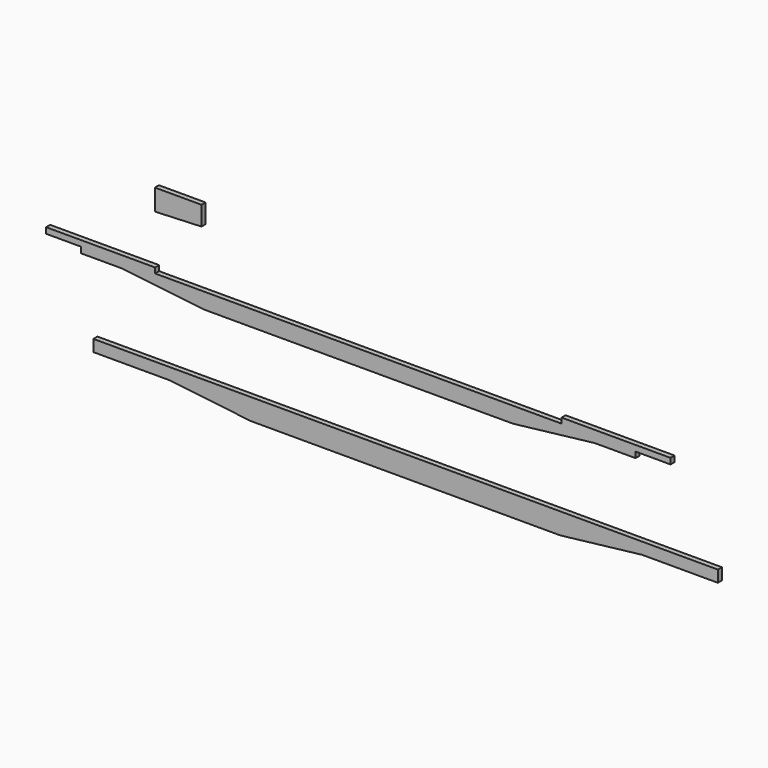
from build123d import *

# Parameters (mm, degrees)
F1_DEPTH  = 1.524
F3_W      = 10.51
F3_H      = 1.75
F4_DEPTH  = 1.524
F5_W      = 10.51
F5_H      = 1.75
F6_DEPTH  = 1.524
F7_W      = 122
F7_H      = 1.524
F8_DEPTH  = 1.6
F10_DEPTH = 1.524


with BuildPart() as f1:
    # F0 (on Front) → F1 (new body)
    with BuildSketch(Plane.XZ):
        Polygon((125.0616679081, 15.1221710391), (-62.3683320919, 15.1221710391), (-62.3683320919, 11.6221710391), (-39.5983320919, 11.6221710391), (-15.0783320919, 8.7721710391), (77.7716679081, 8.7721710391), (102.2916679081, 11.6221710391), (125.0616679081, 11.6221710391), align=None)
    extrude(amount=F1_DEPTH)


with BuildPart() as f2_1:
    # F2: copy of F1
    add(f1.part.moved(Location((-14.2, 0, 24.9))))

    # F3 (on face) → F4 (cut)
    with BuildSketch(Plane.XZ.offset(1.524)):
        with Locations((-71.3133320919, 37.3971710391)):
            Rectangle(F3_W, F3_H)
    extrude(amount=-F4_DEPTH, mode=Mode.SUBTRACT)

    # F5 (on face) → F6 (cut)
    with BuildSketch(Plane.XZ.offset(1.524)):
        with Locations((105.6066679081, 37.3971710391)):
            Rectangle(F5_W, F5_H)
    extrude(amount=-F6_DEPTH, mode=Mode.SUBTRACT)

    # F7 (on face) → F8 (cut)
    with BuildSketch(Plane.XY.offset(40.0221710391)):
        with Locations((17.1466679081, -0.762)):
            Rectangle(F7_W, F7_H)
    extrude(amount=-F8_DEPTH, mode=Mode.SUBTRACT)


with BuildPart() as f10:
    # F9 (on face) → F10 (new body)
    with BuildSketch(Plane.XZ.offset(1.524)):
        Polygon((-28.704431866, 62.1248952341), (-42.714431866, 62.1248952341), (-42.714431866, 55.7748952341), (-28.704431866, 56.3548952341), align=None)
    extrude(amount=F10_DEPTH)


solid = Compound([f1.part, f2_1.part, f10.part])
